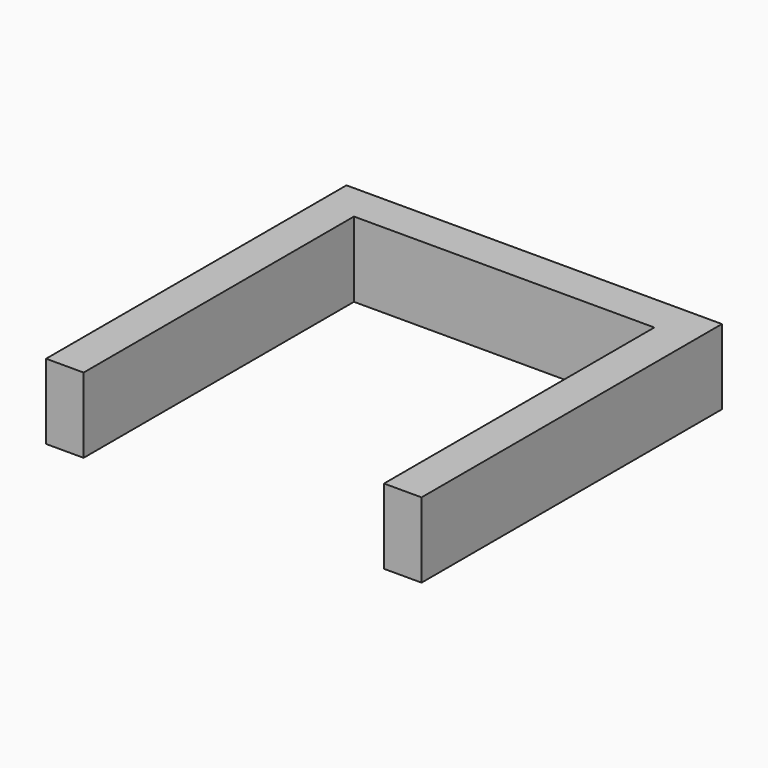
from build123d import *

# Parameters (mm, degrees)
PAD_DEPTH = 10


with BuildPart() as part:
    # Sketch → Pad (new body)
    with BuildSketch(Plane.XY):
        Polygon((-25, 0), (25, 0), (25, -50), (20, -50), (20, -5), (-20, -5), (-20, -50), (-25, -50), align=None)
    extrude(amount=PAD_DEPTH)


solid = part.part
